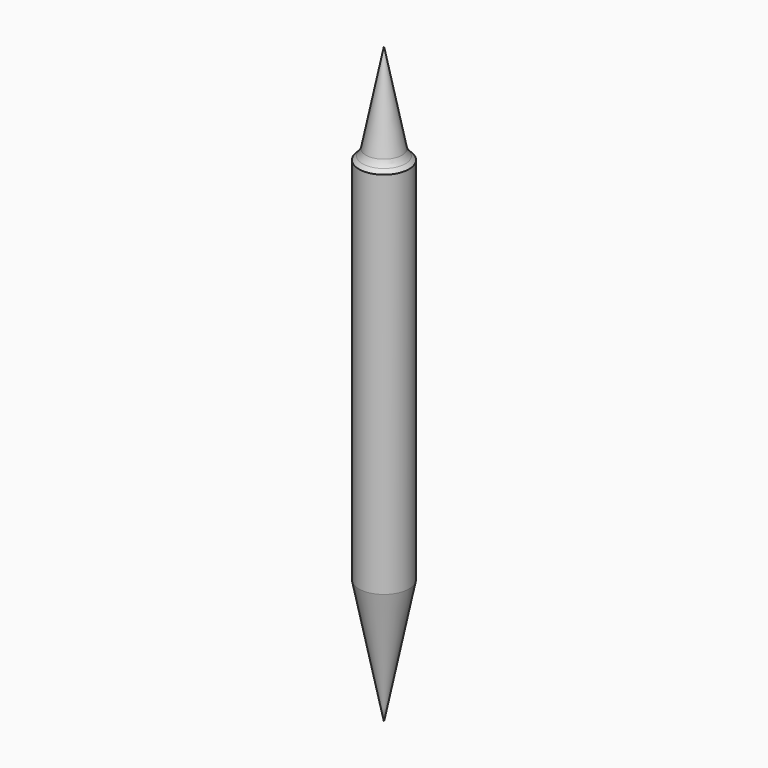
from build123d import *

# Parameters (mm, degrees)
F2_R = 20


with BuildPart() as f1:
    # F0 (on Front) → F1 (revolve)
    with BuildSketch(Plane.XZ):
        Polygon((0, 750), (-30, 600), (0, 600), align=None)
        Polygon((0, 600), (-30, 600), (-40, 590), (-40, 0), (0, 0), align=None)
        Polygon((0, -200), (0, 0), (-40, 0), align=None)
    revolve(axis=Axis((0, 0, 267.89996), (0, 0, -1)))

    # F2
    f2_edges = [f1.edges().sort_by_distance(p)[0] for p in [
        (30, 0, 600),
    ]]
    fillet(f2_edges, radius=F2_R)


solid = f1.part
